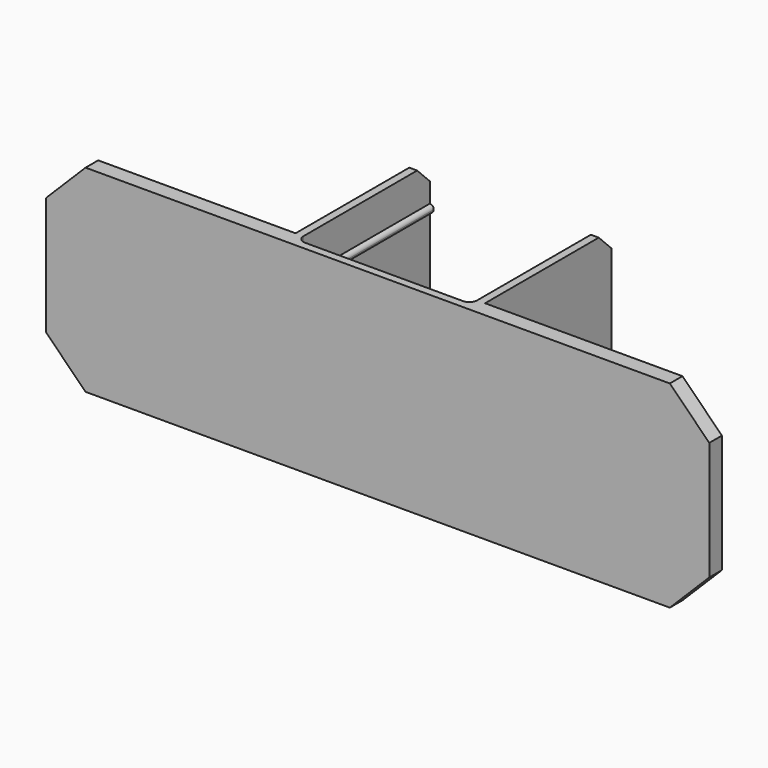
from build123d import *

# Parameters (mm, degrees)
F0_W     = 30
F0_H     = 2
F0_W_2   = 11
F0_H_2   = 1
F1_DEPTH = 25
F2_SIZE  = 5
F3_R     = 1
F7_SIZE  = 2


with BuildPart() as f1:
    # F0 (on Top) → F1 (new body)
    with BuildSketch(Plane.XY):
        with Locations((16, 1)):
            Rectangle(F0_W, F0_H)
        Polygon((0, 1), (0, 0), (1, 0), (1, 2), (1, 22), (0, 22), align=None)
        with Locations((-5.5, 0.5)):
            Rectangle(F0_W_2, F0_H_2)
    extrude(amount=F1_DEPTH)

    # F2
    f2_edges = [f1.edges().sort_by_distance(p)[0] for p in [
        (31, 1, 0),
        (31, 1, 25),
    ]]
    chamfer(f2_edges, length=F2_SIZE)

    # F3
    f3_edges = [f1.edges().sort_by_distance(p)[0] for p in [
        (0, 1, 12.5),
    ]]
    fillet(f3_edges, radius=F3_R)

    # F4 (on face) → F5 (join, up to the next surface of F1)
    with BuildSketch(Plane(origin=(0, 22, 0), x_dir=(-1, 0, 0), z_dir=(0, 1, 0))):
        with BuildLine():
            ThreePointArc((0.5, 5), (0.3535533906, 5.3535533906), (0, 5.5))
            Line((0, 5.5), (0, 4.5))
            ThreePointArc((0, 4.5), (0.3535533906, 4.6464466094), (0.5, 5))
        make_face()
        with BuildLine():
            ThreePointArc((0, 19.5), (0.3535533906, 19.6464466094), (0.5, 20))
            ThreePointArc((0.5, 20), (0.3535533906, 20.3535533906), (0, 20.5))
            Line((0, 20.5), (0, 19.5))
        make_face()
    extrude(until=Until.NEXT, dir=(0, -1, 0))

    # F6: F1 across face


with BuildPart() as f1_1:
    add(f1.part)
    add(f1.part.mirror(Plane(origin=(-11, 0.5, 12.5), x_dir=(0, -1, 0), z_dir=(-1, 0, 0))))

    # F7
    f7_edges = [f1_1.edges().sort_by_distance(p)[0] for p in [
        (-22.5, 22, 25),
        (-22.5, 22, 0),
        (0.5, 22, 25),
        (0.5, 22, 0),
    ]]
    chamfer(f7_edges, length=F7_SIZE)


solid = f1_1.part
